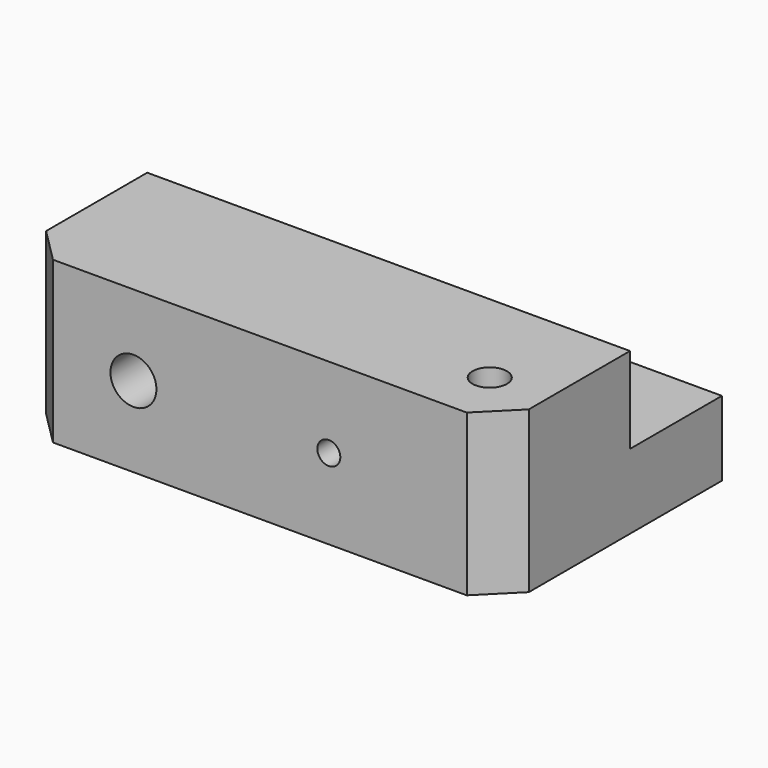
from build123d import *

# Parameters (mm, degrees)
F0_W      = 42
F0_H      = 14
F1_DEPTH  = 14
F3_DEPTH  = 25
F4_SIZE   = 3
F5_R      = 2
F6_DEPTH  = 25
F7_DEPTH  = 25
F8_W      = 10
F8_H      = 14
F9_DEPTH  = 10
F10_W     = 10
F10_H     = 10
F11_DEPTH = 7.5


with BuildPart() as f1:
    # F0 (on Top) → F1 (new body)
    with BuildSketch(Plane.XY):
        with Locations((21, -7)):
            Rectangle(F0_W, F0_H)
    extrude(amount=F1_DEPTH)

    # F2 (on face) → F3 (cut)
    with BuildSketch(Plane.XY.offset(14)):
        with BuildLine():
            ThreePointArc((37, -10.5), (38.06066, -10.06066), (38.5, -9))
            ThreePointArc((38.5, -9), (35.93934, -7.93934), (37, -10.5))
        make_face()
    extrude(amount=-F3_DEPTH, mode=Mode.SUBTRACT)

    # F4
    f4_edges = [f1.edges().sort_by_distance(p)[0] for p in [
        (0, -14, 7),
        (42, -14, 7),
    ]]
    chamfer(f4_edges, length=F4_SIZE)

    # F5 (on face) → F6 (cut)
    with BuildSketch(Plane(origin=(0, 0, 0), x_dir=(-1, 0, 0), z_dir=(0, 1, 0))):
        with BuildLine():
            ThreePointArc((-28, 7), (-27, 6), (-26, 7))
            ThreePointArc((-26, 7), (-27, 8), (-28, 7))
        make_face()
        with Locations((-10, 7)):
            Circle(F5_R)
    extrude(amount=-F6_DEPTH, mode=Mode.SUBTRACT)

    # F5 (on face) → F7 (cut)
    with BuildSketch(Plane(origin=(0, 0, 0), x_dir=(-1, 0, 0), z_dir=(0, 1, 0))):
        with BuildLine():
            ThreePointArc((-28, 7), (-27, 6), (-26, 7))
            ThreePointArc((-26, 7), (-27, 8), (-28, 7))
        make_face()
        with Locations((-10, 7)):
            Circle(F5_R)
    extrude(amount=-F7_DEPTH, mode=Mode.SUBTRACT)

    # F8 (on face) → F9 (join)
    with BuildSketch(Plane(origin=(0, 0, 0), x_dir=(-1, 0, 0), z_dir=(0, 1, 0))):
        with Locations((-37, 7)):
            Rectangle(F8_W, F8_H)
    extrude(amount=F9_DEPTH)

    # F10 (on face) → F11 (cut)
    with BuildSketch(Plane.XY.offset(14)):
        with Locations((37, 5)):
            Rectangle(F10_W, F10_H)
    extrude(amount=-F11_DEPTH, mode=Mode.SUBTRACT)


solid = f1.part
